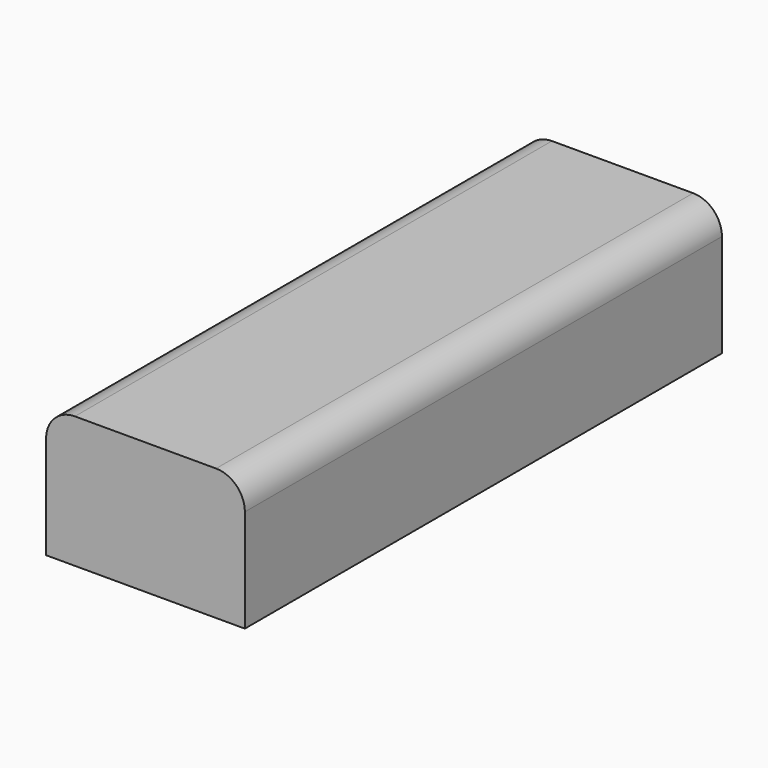
from build123d import *

# Parameters (mm, degrees)
F0_W     = 152.395725
F0_H     = 33.633301
F1_DEPTH = 50.8
F2_R     = 7.358523


with BuildPart() as f1:
    # F0 (on Right) → F1 (new body)
    with BuildSketch(Plane.YZ):
        with Locations((-6.703458, 12.598197)):
            Rectangle(F0_W, F0_H)
    extrude(amount=F1_DEPTH)

    # F2
    f2_edges = [f1.edges().sort_by_distance(p)[0] for p in [
        (50.8, -6.703459, 29.414847),
        (0, -6.703459, 29.414847),
    ]]
    fillet(f2_edges, radius=F2_R)


solid = f1.part
